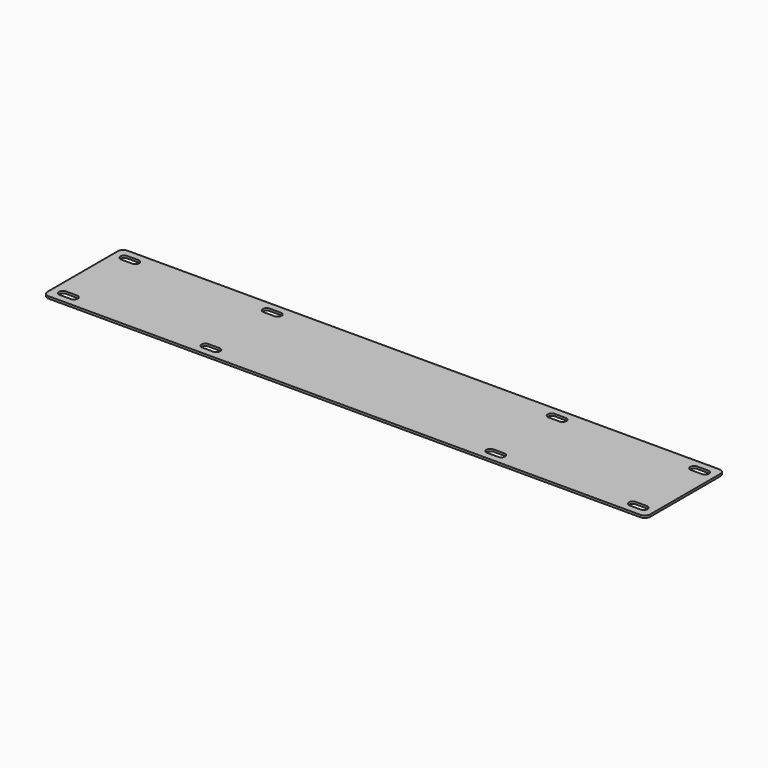
from build123d import *

# Parameters (mm, degrees)
F1_DEPTH = 2


with BuildPart() as f1:
    # F0 (on Top) → F1 (new body)
    with BuildSketch(Plane.XY):
        with BuildLine():
            ThreePointArc((275, 40), (273.535534, 43.535534), (270, 45))
            Line((270, 45), (-270, 45))
            ThreePointArc((-270, 45), (-273.535534, 43.535534), (-275, 40))
            Line((-275, 40), (-275, -40))
            ThreePointArc((-275, -40), (-273.535534, -43.535534), (-270, -45))
            Line((-270, -45), (270, -45))
            ThreePointArc((270, -45), (273.535534, -43.535534), (275, -40))
            Line((275, -40), (275, 40))
        make_face()
        with BuildLine():
            ThreePointArc((-251.5, -35), (-252.525126, -37.474874), (-255, -38.5))
            Line((-255, -38.5), (-265, -38.5))
            ThreePointArc((-265, -38.5), (-268.5, -35), (-265, -31.5))
            Line((-265, -31.5), (-255, -31.5))
            ThreePointArc((-255, -31.5), (-252.525126, -32.525126), (-251.5, -35))
        make_face(mode=Mode.SUBTRACT)
        with BuildLine():
            ThreePointArc((-121.5, -35), (-122.525126, -37.474874), (-125, -38.5))
            Line((-125, -38.5), (-135, -38.5))
            ThreePointArc((-135, -38.5), (-138.5, -35), (-135, -31.5))
            Line((-135, -31.5), (-125, -31.5))
            ThreePointArc((-125, -31.5), (-122.525126, -32.525126), (-121.5, -35))
        make_face(mode=Mode.SUBTRACT)
        with BuildLine():
            ThreePointArc((125, -38.5), (121.5, -35), (125, -31.5))
            Line((125, -31.5), (135, -31.5))
            ThreePointArc((135, -31.5), (137.474874, -32.525126), (138.5, -35))
            ThreePointArc((138.5, -35), (137.474874, -37.474874), (135, -38.5))
            Line((135, -38.5), (125, -38.5))
        make_face(mode=Mode.SUBTRACT)
        with BuildLine():
            ThreePointArc((255, -38.5), (251.5, -35), (255, -31.5))
            Line((255, -31.5), (265, -31.5))
            ThreePointArc((265, -31.5), (267.474874, -32.525126), (268.5, -35))
            ThreePointArc((268.5, -35), (267.474874, -37.474874), (265, -38.5))
            Line((265, -38.5), (255, -38.5))
        make_face(mode=Mode.SUBTRACT)
        with BuildLine():
            ThreePointArc((-265, 31.5), (-268.5, 35), (-265, 38.5))
            Line((-265, 38.5), (-255, 38.5))
            ThreePointArc((-255, 38.5), (-252.525126, 37.474874), (-251.5, 35))
            ThreePointArc((-251.5, 35), (-252.525126, 32.525126), (-255, 31.5))
            Line((-255, 31.5), (-265, 31.5))
        make_face(mode=Mode.SUBTRACT)
        with BuildLine():
            ThreePointArc((-135, 31.5), (-138.5, 35), (-135, 38.5))
            Line((-135, 38.5), (-125, 38.5))
            ThreePointArc((-125, 38.5), (-122.525126, 37.474874), (-121.5, 35))
            ThreePointArc((-121.5, 35), (-122.525126, 32.525126), (-125, 31.5))
            Line((-125, 31.5), (-135, 31.5))
        make_face(mode=Mode.SUBTRACT)
        with BuildLine():
            ThreePointArc((125, 31.5), (121.5, 35), (125, 38.5))
            Line((125, 38.5), (135, 38.5))
            ThreePointArc((135, 38.5), (137.474874, 37.474874), (138.5, 35))
            ThreePointArc((138.5, 35), (137.474874, 32.525126), (135, 31.5))
            Line((135, 31.5), (125, 31.5))
        make_face(mode=Mode.SUBTRACT)
        with BuildLine():
            ThreePointArc((255, 31.5), (251.5, 35), (255, 38.5))
            Line((255, 38.5), (265, 38.5))
            ThreePointArc((265, 38.5), (267.474874, 37.474874), (268.5, 35))
            ThreePointArc((268.5, 35), (267.474874, 32.525126), (265, 31.5))
            Line((265, 31.5), (255, 31.5))
        make_face(mode=Mode.SUBTRACT)
    extrude(amount=F1_DEPTH)


solid = f1.part
